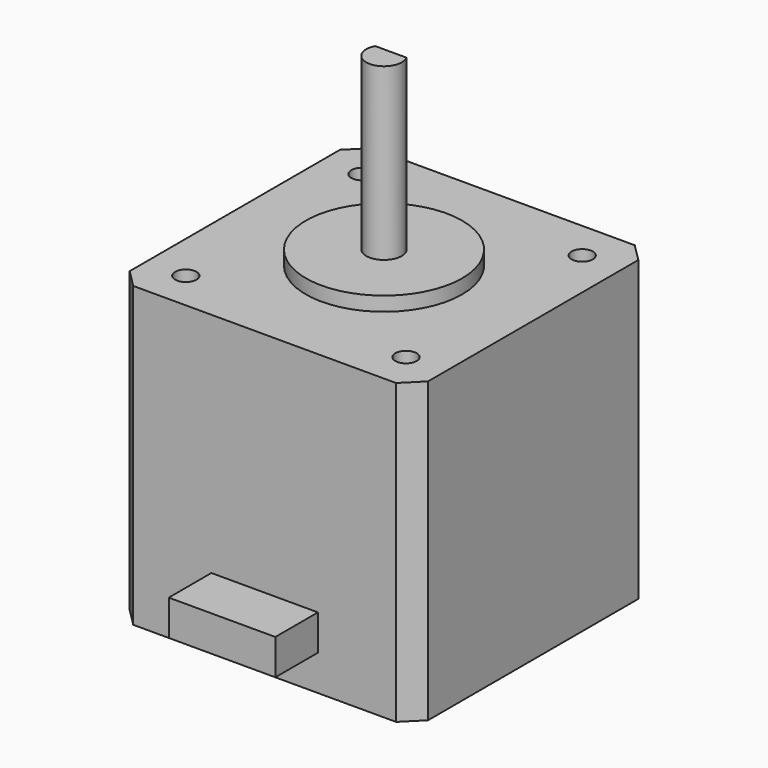
from build123d import *

# Parameters (mm, degrees)
F0_W      = 42
F0_H      = 42
F1_DEPTH  = 42
F2_SIZE   = 2.5
F3_R      = 1.5
F4_DEPTH  = 10
F5_R      = 11
F6_DEPTH  = 2
F8_DEPTH  = 24
F9_W      = 15
F9_H      = 5
F10_DEPTH = 7.5


with BuildPart() as f1:
    # F0 (on Top) → F1 (new body)
    with BuildSketch(Plane.XY):
        Rectangle(F0_W, F0_H)
    extrude(amount=F1_DEPTH)

    # F2
    f2_edges = [f1.edges().sort_by_distance(p)[0] for p in [
        (-21, -21, 21),
        (21, -21, 21),
        (21, 21, 21),
        (-21, 21, 21),
    ]]
    chamfer(f2_edges, length=F2_SIZE)

    # F3 (on face) → F4 (cut)
    with BuildSketch(Plane.XY.offset(42)):
        with Locations((-15.5, 15.5)):
            Circle(F3_R)
        with Locations((15.5, 15.5)):
            Circle(F3_R)
        with Locations((15.5, -15.5)):
            Circle(F3_R)
        with Locations((-15.5, -15.5)):
            Circle(F3_R)
    extrude(amount=-F4_DEPTH, mode=Mode.SUBTRACT)

    # F5 (on face) → F6 (join)
    with BuildSketch(Plane.XY.offset(42)):
        Circle(F5_R)
    extrude(amount=F6_DEPTH)

    # F7 (on face) → F8 (join)
    with BuildSketch(Plane.XY.offset(44)):
        with BuildLine():
            Line((2.193171, 1.2), (-2.193171, 1.2))
            ThreePointArc((-2.193171, 1.2), (0, -2.5), (2.193171, 1.2))
        make_face()
    extrude(amount=F8_DEPTH)

    # F9 (on face) → F10 (join)
    with BuildSketch(Plane.XZ.offset(21)):
        with Locations((0, 7.5)):
            Rectangle(F9_W, F9_H)
    extrude(amount=F10_DEPTH)


solid = f1.part
